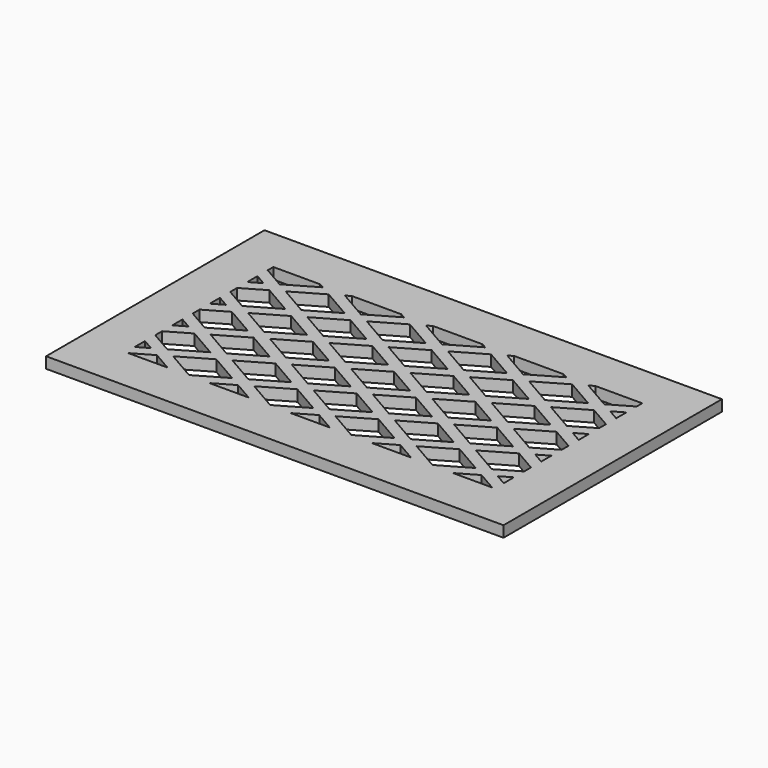
from build123d import *

# Parameters (mm, degrees)
F0_W     = 124
F0_H     = 74
F1_DEPTH = 3


with BuildPart() as f1:
    # F0 (on Top) → F1 (new body)
    with BuildSketch(Plane.XY):
        with Locations((0, 37)):
            Rectangle(F0_W, F0_H)
        Polygon((-47, 16.792741), (-50, 15.06069), (-50, 18.524791), align=None, mode=Mode.SUBTRACT)
        Polygon((-38.69873, 12), (-49.30127, 12), (-44, 15.06069), align=None, mode=Mode.SUBTRACT)
        Polygon((-25, 16.792741), (-33, 12.173938), (-41, 16.792741), (-33, 21.411543), align=None, mode=Mode.SUBTRACT)
        Polygon((-16.69873, 12), (-27.30127, 12), (-22, 15.06069), align=None, mode=Mode.SUBTRACT)
        Polygon((5.30127, 12), (-5.30127, 12), (0, 15.06069), align=None, mode=Mode.SUBTRACT)
        Polygon((-3, 16.792741), (-11, 12.173938), (-19, 16.792741), (-11, 21.411543), align=None, mode=Mode.SUBTRACT)
        Polygon((-50, 21.988893), (-50, 24.298294), (-44, 27.762396), (-36, 23.143594), (-44, 18.524791), align=None, mode=Mode.SUBTRACT)
        Polygon((-47, 29.494447), (-50, 27.762396), (-50, 31.226497), align=None, mode=Mode.SUBTRACT)
        Polygon((-33, 24.875644), (-41, 29.494447), (-33, 34.113249), (-25, 29.494447), align=None, mode=Mode.SUBTRACT)
        Polygon((-50, 34.690599), (-50, 37), (-44, 40.464102), (-36, 35.845299), (-44, 31.226497), align=None, mode=Mode.SUBTRACT)
        Polygon((-22, 18.524791), (-30, 23.143594), (-22, 27.762396), (-14, 23.143594), align=None, mode=Mode.SUBTRACT)
        Polygon((-22, 31.226497), (-30, 35.845299), (-22, 40.464102), (-14, 35.845299), align=None, mode=Mode.SUBTRACT)
        Polygon((-3, 29.494447), (-11, 24.875644), (-19, 29.494447), (-11, 34.113249), align=None, mode=Mode.SUBTRACT)
        Polygon((19, 16.792741), (11, 12.173938), (3, 16.792741), (11, 21.411543), align=None, mode=Mode.SUBTRACT)
        Polygon((27.30127, 12), (16.69873, 12), (22, 15.06069), align=None, mode=Mode.SUBTRACT)
        Polygon((49.30127, 12), (38.69873, 12), (44, 15.06069), align=None, mode=Mode.SUBTRACT)
        Polygon((41, 16.792741), (33, 12.173938), (25, 16.792741), (33, 21.411543), align=None, mode=Mode.SUBTRACT)
        Polygon((50, 18.524791), (50, 15.06069), (47, 16.792741), align=None, mode=Mode.SUBTRACT)
        Polygon((0, 18.524791), (-8, 23.143594), (0, 27.762396), (8, 23.143594), align=None, mode=Mode.SUBTRACT)
        Polygon((22, 18.524791), (14, 23.143594), (22, 27.762396), (30, 23.143594), align=None, mode=Mode.SUBTRACT)
        Polygon((11, 24.875644), (3, 29.494447), (11, 34.113249), (19, 29.494447), align=None, mode=Mode.SUBTRACT)
        Polygon((0, 31.226497), (-8, 35.845299), (0, 40.464102), (8, 35.845299), align=None, mode=Mode.SUBTRACT)
        Polygon((22, 40.464102), (30, 35.845299), (22, 31.226497), (14, 35.845299), align=None, mode=Mode.SUBTRACT)
        Polygon((44, 27.762396), (50, 24.298294), (50, 21.988893), (44, 18.524791), (36, 23.143594), align=None, mode=Mode.SUBTRACT)
        Polygon((33, 34.113249), (41, 29.494447), (33, 24.875644), (25, 29.494447), align=None, mode=Mode.SUBTRACT)
        Polygon((50, 37), (50, 34.690599), (44, 31.226497), (36, 35.845299), (44, 40.464102), align=None, mode=Mode.SUBTRACT)
        Polygon((50, 31.226497), (50, 27.762396), (47, 29.494447), align=None, mode=Mode.SUBTRACT)
        Polygon((-47, 42.196152), (-50, 40.464102), (-50, 43.928203), align=None, mode=Mode.SUBTRACT)
        Polygon((-25, 42.196152), (-33, 37.57735), (-41, 42.196152), (-33, 46.814955), align=None, mode=Mode.SUBTRACT)
        Polygon((-47, 54.897858), (-50, 53.165808), (-50, 56.629909), align=None, mode=Mode.SUBTRACT)
        Polygon((-50, 47.392305), (-50, 49.701706), (-44, 53.165808), (-36, 48.547005), (-44, 43.928203), align=None, mode=Mode.SUBTRACT)
        Polygon((-25, 54.897858), (-33, 50.279056), (-41, 54.897858), (-33, 59.51666), align=None, mode=Mode.SUBTRACT)
        Polygon((-11, 37.57735), (-19, 42.196152), (-11, 46.814955), (-3, 42.196152), align=None, mode=Mode.SUBTRACT)
        Polygon((-22, 43.928203), (-30, 48.547005), (-22, 53.165808), (-14, 48.547005), align=None, mode=Mode.SUBTRACT)
        Polygon((-11, 50.279056), (-19, 54.897858), (-11, 59.51666), (-3, 54.897858), align=None, mode=Mode.SUBTRACT)
        Polygon((-50, 60.094011), (-50, 62), (-37.30127, 62), (-36, 61.248711), (-44, 56.629909), align=None, mode=Mode.SUBTRACT)
        Polygon((-22, 56.629909), (-30, 61.248711), (-28.69873, 62), (-15.30127, 62), (-14, 61.248711), align=None, mode=Mode.SUBTRACT)
        Polygon((11, 37.57735), (3, 42.196152), (11, 46.814955), (19, 42.196152), align=None, mode=Mode.SUBTRACT)
        Polygon((0, 43.928203), (-8, 48.547005), (0, 53.165808), (8, 48.547005), align=None, mode=Mode.SUBTRACT)
        Polygon((11, 50.279056), (3, 54.897858), (11, 59.51666), (19, 54.897858), align=None, mode=Mode.SUBTRACT)
        Polygon((22, 43.928203), (14, 48.547005), (22, 53.165808), (30, 48.547005), align=None, mode=Mode.SUBTRACT)
        Polygon((33, 46.814955), (41, 42.196152), (33, 37.57735), (25, 42.196152), align=None, mode=Mode.SUBTRACT)
        Polygon((50, 43.928203), (50, 40.464102), (47, 42.196152), align=None, mode=Mode.SUBTRACT)
        Polygon((44, 53.165808), (50, 49.701706), (50, 47.392305), (44, 43.928203), (36, 48.547005), align=None, mode=Mode.SUBTRACT)
        Polygon((33, 50.279056), (25, 54.897858), (33, 59.51666), (41, 54.897858), align=None, mode=Mode.SUBTRACT)
        Polygon((50, 56.629909), (50, 53.165808), (47, 54.897858), align=None, mode=Mode.SUBTRACT)
        Polygon((-8, 61.248711), (-6.69873, 62), (6.69873, 62), (8, 61.248711), (0, 56.629909), align=None, mode=Mode.SUBTRACT)
        Polygon((14, 61.248711), (15.30127, 62), (28.69873, 62), (30, 61.248711), (22, 56.629909), align=None, mode=Mode.SUBTRACT)
        Polygon((37.30127, 62), (50, 62), (50, 60.094011), (44, 56.629909), (36, 61.248711), align=None, mode=Mode.SUBTRACT)
    extrude(amount=F1_DEPTH)


solid = f1.part
